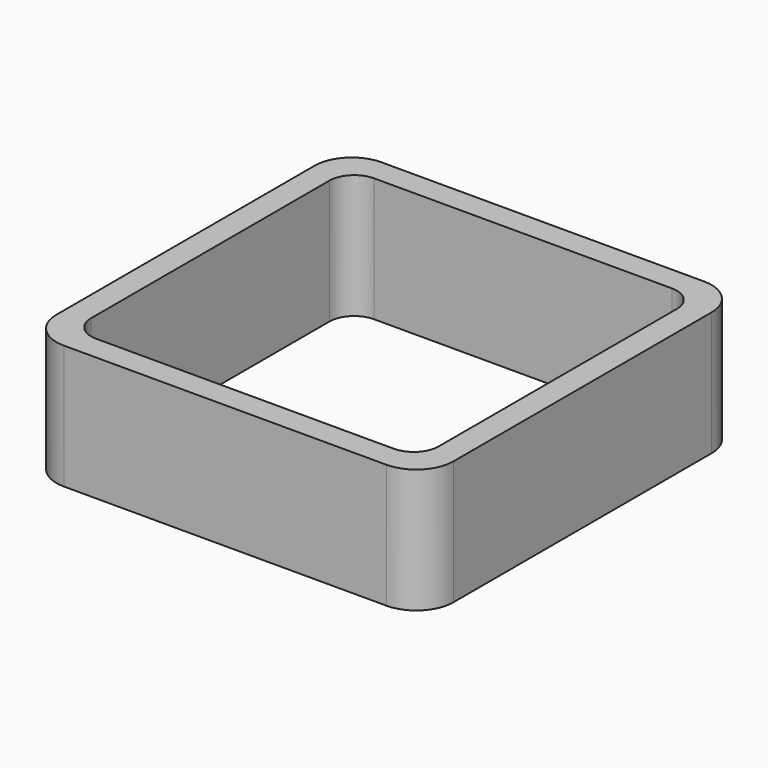
from build123d import *

# Parameters (mm, degrees)
EXTRUDE_DEPTH = 50


with BuildPart() as part:
    # Sketch → Extrude (new body)
    with BuildSketch(Plane.XY):
        with BuildLine():
            Line((-65, 80), (65, 80))
            ThreePointArc((80, 65), (75.606602, 75.606602), (65, 80))
            Line((80, 65), (80, -65))
            ThreePointArc((65, -80), (75.606602, -75.606602), (80, -65))
            Line((65, -80), (-65, -80))
            ThreePointArc((-80, -65), (-75.606602, -75.606602), (-65, -80))
            Line((-80, -65), (-80, 65))
            ThreePointArc((-65, 80), (-75.606602, 75.606602), (-80, 65))
        make_face()
        with BuildLine():
            Line((-60, 70), (60, 70))
            ThreePointArc((70, 60), (67.071068, 67.071068), (60, 70))
            Line((70, 60), (70, -60))
            ThreePointArc((60, -70), (67.071068, -67.071068), (70, -60))
            Line((60, -70), (-60, -70))
            ThreePointArc((-70, -60), (-67.071068, -67.071068), (-60, -70))
            Line((-70, -60), (-70, 60))
            ThreePointArc((-60, 70), (-67.071068, 67.071068), (-70, 60))
        make_face(mode=Mode.SUBTRACT)
    extrude(amount=EXTRUDE_DEPTH)


solid = part.part
